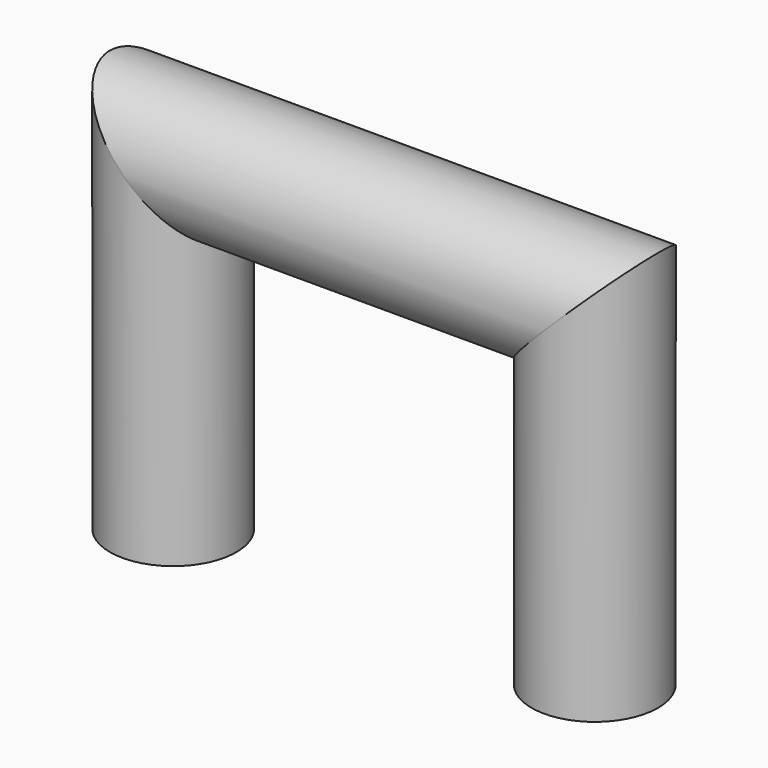
from build123d import *

# Parameters (mm, degrees)
F1_R = 7.5


with BuildPart() as f2:
    # F2: sweep along a path in F0
    with BuildLine(Plane.XZ) as f2_path:
        Line((25, 0), (25, 40))
        Line((25, 40), (-25, 40))
        Line((-25, 40), (-25, 0))
    # F1 (on Top) → F2 (sweep)
    with BuildSketch(Plane.XY):
        with Locations((25, 0)):
            Circle(F1_R)
    sweep(path=f2_path.line, transition=Transition.RIGHT)


solid = f2.part
